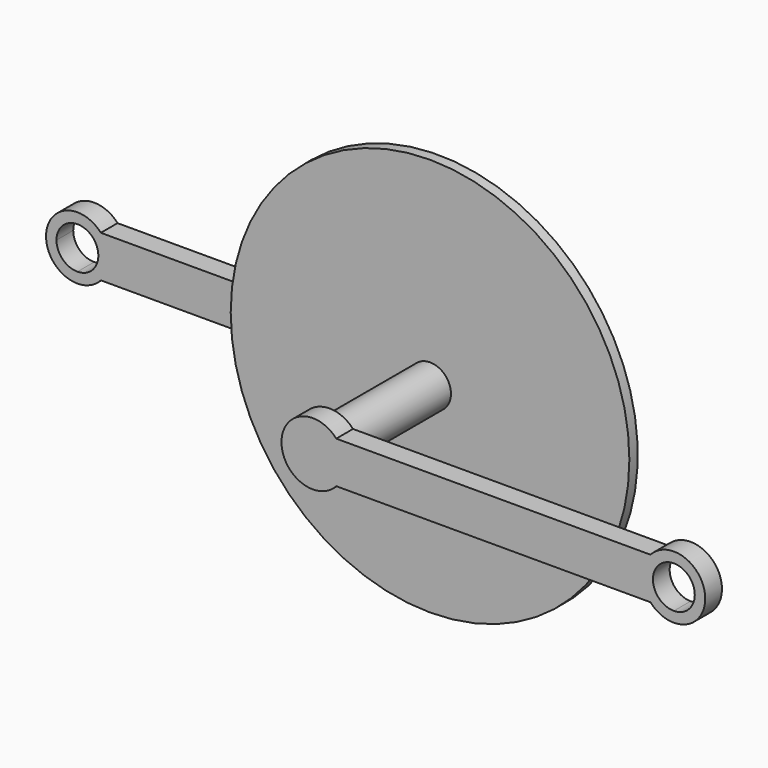
from build123d import *

# Parameters (mm, degrees)
F0_R     = 10
F1_DEPTH = 30
F3_DEPTH = 10
F4_R     = 95.25
F5_DEPTH = 5
F7_DEPTH = 10


with BuildPart() as f1:
    # F0 (on Front) → F1 (new body, symmetric)
    with BuildSketch(Plane.XZ):
        Circle(F0_R)
    extrude(amount=F1_DEPTH, both=True)

    # F2 (on face) → F3 (join)
    with BuildSketch(Plane.XZ.offset(30)):
        with BuildLine():
            ThreePointArc((11.180508, 9.999812), (-15, 0.000126), (11.18034, -10))
            Line((11.18034, -10), (161.31966, -10))
            ThreePointArc((161.31966, -10), (187.5, 0.000126), (161.319492, 9.999812))
            Line((161.319492, 9.999812), (11.180508, 9.999812))
        make_face()
        with BuildLine():
            ThreePointArc((172.561293, 9.999812), (179.592705, 7.049364), (182.5, 0))
            ThreePointArc((182.5, 0), (179.571068, -7.071068), (172.5, -10))
            ThreePointArc((172.5, -10), (162.500047, -0.030647), (172.438707, 9.999812))
            ThreePointArc((172.438707, 9.999812), (172.5, 10), (172.561293, 9.999812))
        make_face(mode=Mode.SUBTRACT)
    extrude(amount=F3_DEPTH)

    # F4 (on face) → F5 (join)
    with BuildSketch(Plane(origin=(0, 30, 0), x_dir=(-1, 0, 0), z_dir=(0, 1, 0))):
        Circle(F4_R)
    extrude(amount=F5_DEPTH)

    # F6 (on face) → F7 (join)
    with BuildSketch(Plane(origin=(0, 35, 0), x_dir=(-1, 0, 0), z_dir=(0, 1, 0))):
        with BuildLine():
            Line((161.319515, 9.999837), (11.180485, 9.999837))
            ThreePointArc((11.180485, 9.999837), (-15, 0.000109), (11.18034, -10))
            Line((11.18034, -10), (161.31966, -10))
            ThreePointArc((161.31966, -10), (187.5, 0.000109), (161.319515, 9.999837))
        make_face()
        with BuildLine():
            ThreePointArc((172.557026, 9.999837), (179.591201, 7.050877), (182.5, 0))
            ThreePointArc((182.5, 0), (179.571068, -7.071068), (172.5, -10))
            ThreePointArc((172.5, -10), (162.500041, -0.028513), (172.442974, 9.999837))
            ThreePointArc((172.442974, 9.999837), (172.5, 10), (172.557026, 9.999837))
        make_face(mode=Mode.SUBTRACT)
    extrude(amount=F7_DEPTH)


solid = f1.part
